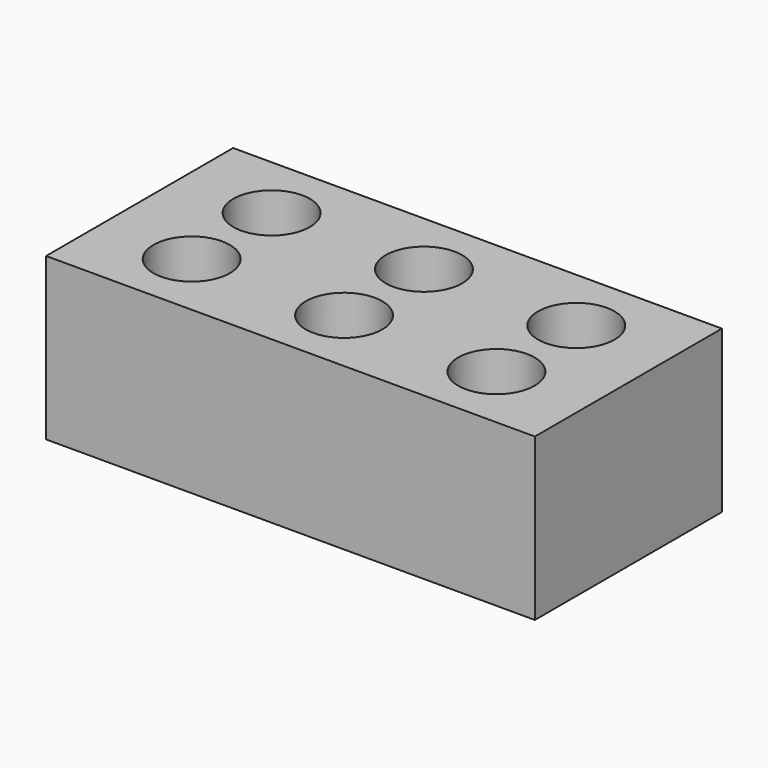
from build123d import *

# Parameters (mm, degrees)
CYLINDER001_R     = 18
CYLINDER001_DEPTH = 100
CYLINDER002_R     = 18
CYLINDER002_DEPTH = 100
CYLINDER003_R     = 18
CYLINDER003_DEPTH = 100
CYLINDER004_R     = 18
CYLINDER004_DEPTH = 100
CYLINDER005_R     = 18
CYLINDER005_DEPTH = 100
CYLINDER_R        = 18
CYLINDER_DEPTH    = 100
BOX_W             = 230
BOX_H             = 110
BOX_DEPTH         = 76


with BuildPart() as cylinder001:
    # Cylinder001 → Cylinder001 (new body)
    with BuildSketch(Plane(origin=(43.3, 78.5, -10), x_dir=(1, 0, 0), z_dir=(0, 0, 1))):
        Circle(CYLINDER001_R)
    extrude(amount=CYLINDER001_DEPTH)


with BuildPart() as cylinder002:
    # Cylinder002 → Cylinder002 (new body)
    with BuildSketch(Plane(origin=(115, 31.5, -10), x_dir=(1, 0, 0), z_dir=(0, 0, 1))):
        Circle(CYLINDER002_R)
    extrude(amount=CYLINDER002_DEPTH)


with BuildPart() as cylinder003:
    # Cylinder003 → Cylinder003 (new body)
    with BuildSketch(Plane(origin=(115, 78.5, -10), x_dir=(1, 0, 0), z_dir=(0, 0, 1))):
        Circle(CYLINDER003_R)
    extrude(amount=CYLINDER003_DEPTH)


with BuildPart() as cylinder004:
    # Cylinder004 → Cylinder004 (new body)
    with BuildSketch(Plane(origin=(186.7, 31.5, 0), x_dir=(1, 0, 0), z_dir=(0, 0, 1))):
        Circle(CYLINDER004_R)
    extrude(amount=CYLINDER004_DEPTH)


with BuildPart() as cylinder005:
    # Cylinder005 → Cylinder005 (new body)
    with BuildSketch(Plane(origin=(186.7, 78.5, -10), x_dir=(1, 0, 0), z_dir=(0, 0, 1))):
        Circle(CYLINDER005_R)
    extrude(amount=CYLINDER005_DEPTH)


with BuildPart() as fusion:
    # Cylinder → Cylinder (new body)
    with BuildSketch(Plane(origin=(43.3, 31.5, -10), x_dir=(1, 0, 0), z_dir=(0, 0, 1))):
        Circle(CYLINDER_R)
    extrude(amount=CYLINDER_DEPTH)

    # Fusion: union Cylinder001, Cylinder002, Cylinder003, Cylinder004, Cylinder005
    add(cylinder001.part)
    add(cylinder002.part)
    add(cylinder003.part)
    add(cylinder004.part)
    add(cylinder005.part)


with BuildPart() as cut:
    # Box → Box (new body)
    with BuildSketch(Plane.XY):
        with Locations((115, 55)):
            Rectangle(BOX_W, BOX_H)
    extrude(amount=BOX_DEPTH)

    # Cut: cut Fusion
    add(fusion.part, mode=Mode.SUBTRACT)


solid = cut.part
